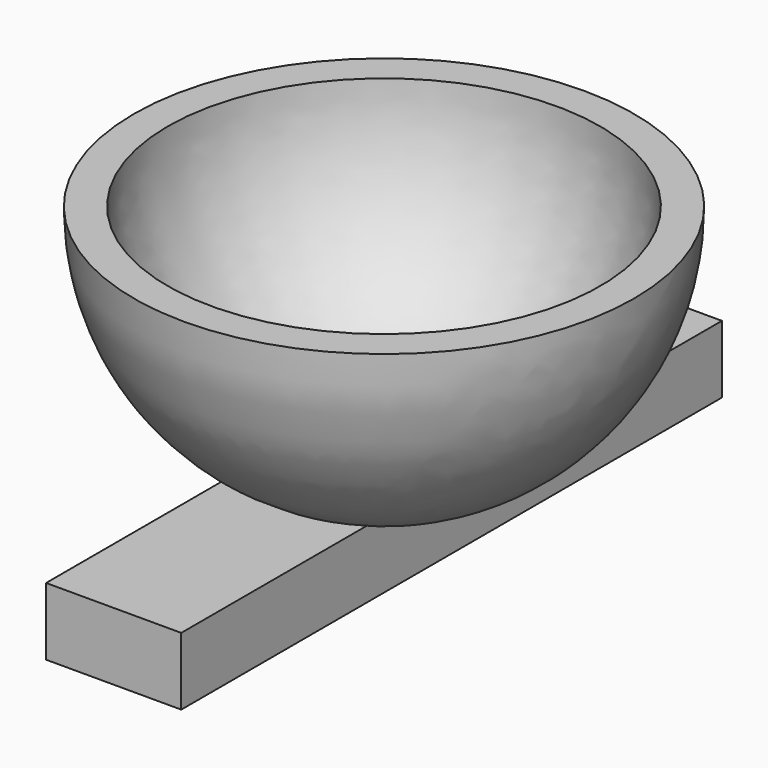
from build123d import *

# Parameters (mm, degrees)
F2_DEPTH = 25


with BuildPart() as f1:
    # F0 (on Front) → F1 (revolve)
    with BuildSketch(Plane.XZ):
        with BuildLine():
            ThreePointArc((0, -16), (-11.313708, -11.313708), (-16, 0))
            Line((-16, 0), (-18.5, 0))
            ThreePointArc((-18.5, 0), (-14.743643, -11.174748), (-5, -17.811513))
            Line((-5, -17.811513), (-5, -16))
            Line((-5, -16), (0, -16))
        make_face()
        with BuildLine():
            Line((0, -18.5), (0, -16))
            Line((0, -16), (-5, -16))
            Line((-5, -16), (-5, -17.811513))
            ThreePointArc((-5, -17.811513), (-2.523589, -18.32707), (0, -18.5))
        make_face()
    revolve(axis=Axis((0, 0, -9.25), (0, 0, -1)))

    # F0 (on Front) → F2 (join, symmetric)
    with BuildSketch(Plane.XZ):
        with BuildLine():
            Line((5, -16), (0, -16))
            Line((0, -16), (0, -18.5))
            ThreePointArc((0, -18.5), (-2.523589, -18.32707), (-5, -17.811513))
            Line((-5, -17.811513), (-5, -21))
            Line((-5, -21), (5, -21))
            Line((5, -21), (5, -16))
        make_face()
        with BuildLine():
            Line((0, -18.5), (0, -16))
            Line((0, -16), (-5, -16))
            Line((-5, -16), (-5, -17.811513))
            ThreePointArc((-5, -17.811513), (-2.523589, -18.32707), (0, -18.5))
        make_face()
    extrude(amount=F2_DEPTH, both=True)


solid = f1.part
